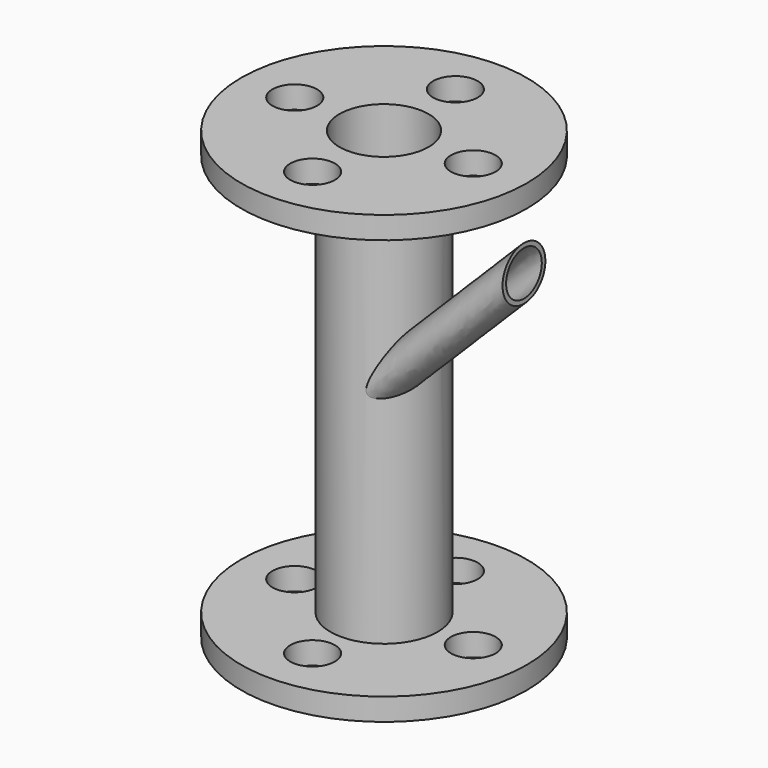
from build123d import *

# Parameters (mm, degrees)
F0_R      = 12
F1_DEPTH  = 100
F2_R      = 10
F3_DEPTH  = 100
F4_R      = 32
F4_R_2    = 12
F5_DEPTH  = 5
F6_R      = 32
F6_R_2    = 12
F7_DEPTH  = 5
F8_R      = 5
F9_DEPTH  = 100
F14_R     = 5
F16_R     = 10
F17_DEPTH = 100


with BuildPart() as f1:
    # F0 (on Top) → F1 (new body)
    with BuildSketch(Plane.XY):
        Circle(F0_R)
    extrude(amount=F1_DEPTH)

    # F2 (on face) → F3 (cut, through all)
    with BuildSketch(Plane.XY.offset(100)):
        Circle(F2_R)
    extrude(amount=-F3_DEPTH, mode=Mode.SUBTRACT)

    # F4 (on face) → F5 (join)
    with BuildSketch(Plane(origin=(0, 0, 0), x_dir=(1, 0, 0), z_dir=(0, 0, -1))):
        Circle(F4_R)
        Circle(F4_R_2, mode=Mode.SUBTRACT)
    extrude(amount=-F5_DEPTH)

    # F6 (on face) → F7 (join)
    with BuildSketch(Plane.XY.offset(100)):
        Circle(F6_R)
        Circle(F6_R_2, mode=Mode.SUBTRACT)
    extrude(amount=-F7_DEPTH)

    # F8 (on face) → F9 (cut, through all)
    with BuildSketch(Plane.XY.offset(100)):
        with Locations((0, 20)):
            Circle(F8_R)
        with Locations((-20, 0)):
            Circle(F8_R)
        with Locations((0, -20)):
            Circle(F8_R)
        with Locations((20, 0)):
            Circle(F8_R)
    extrude(amount=-F9_DEPTH, mode=Mode.SUBTRACT)

    # F13: sweep along a path in F12
    with BuildLine(Plane.XZ.offset(5)) as f13_path:
        Line((0, 50), (35.3553390593, 85.3553390593))
    # F10 (on Right) → F13 (sweep)
    with BuildSketch(Plane.YZ):
        with BuildLine():
            ThreePointArc((0, 46.6833752096), (0.7445626465, 48.2679491924), (1, 50))
            ThreePointArc((1, 50), (-10.7445626465, 51.7320508076), (0, 46.6833752096))
        make_face()
    sweep(path=f13_path.line)

    # F15: sweep along a path in F12
    with BuildLine(Plane.XZ.offset(5)) as f15_path:
        Line((0, 50), (35.3553390593, 85.3553390593))
    # F14 (on face) → F15 (sweep, cut)
    with BuildSketch(Plane.YZ.offset(35.3553390593)):
        with Locations((-5, 85.3553390593)):
            Circle(F14_R)
    sweep(path=f15_path.line, mode=Mode.SUBTRACT)

    # F16 (on face) → F17 (cut)
    with BuildSketch(Plane.XY.offset(100)):
        Circle(F16_R)
    extrude(amount=-F17_DEPTH, mode=Mode.SUBTRACT)


solid = f1.part
